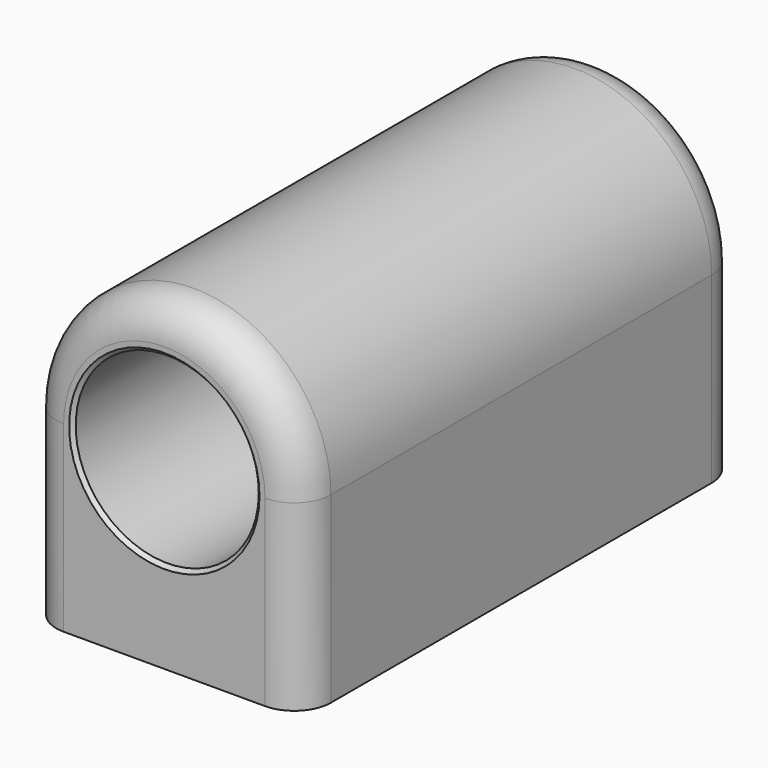
from build123d import *

# Parameters (mm, degrees)
F0_R     = 12.7
F1_DEPTH = 38.1
F2_R     = 1.651
F3_DEPTH = 12.7
F4_R     = 5.08
F5_SIZE  = 0.508


with BuildPart() as f1:
    # F0 (on Front) → F1 (new body, symmetric)
    with BuildSketch(Plane.XZ):
        with BuildLine():
            Line((19.05, -25.4), (19.05, 0))
            ThreePointArc((19.05, 0), (0, 19.05), (-19.05, 0))
            Line((-19.05, 0), (-19.05, -25.4))
            Line((-19.05, -25.4), (19.05, -25.4))
        make_face()
        Circle(F0_R, mode=Mode.SUBTRACT)
    extrude(amount=F1_DEPTH, both=True)

    # F2 (on face) → F3 (cut)
    with BuildSketch(Plane(origin=(0, 0, -25.4), x_dir=(1, 0, 0), z_dir=(0, 0, -1))):
        with Locations((-12.7, 31.75)):
            Circle(F2_R)
        with Locations((11.049, 31.75)):
            Circle(F2_R)
        with Locations((-12.7, -31.75)):
            Circle(F2_R)
        with Locations((11.049, -31.75)):
            Circle(F2_R)
    extrude(amount=-F3_DEPTH, mode=Mode.SUBTRACT)

    # F4
    f4_edges = [f1.edges().sort_by_distance(p)[0] for p in [
        (0, 38.1, 19.05),
        (0, -38.1, 19.05),
    ]]
    fillet(f4_edges, radius=F4_R)

    # F5
    f5_edges = [f1.edges().sort_by_distance(p)[0] for p in [
        (-12.7, 38.1, 0),
        (-12.7, -38.1, 0),
    ]]
    chamfer(f5_edges, length=F5_SIZE)


solid = f1.part
